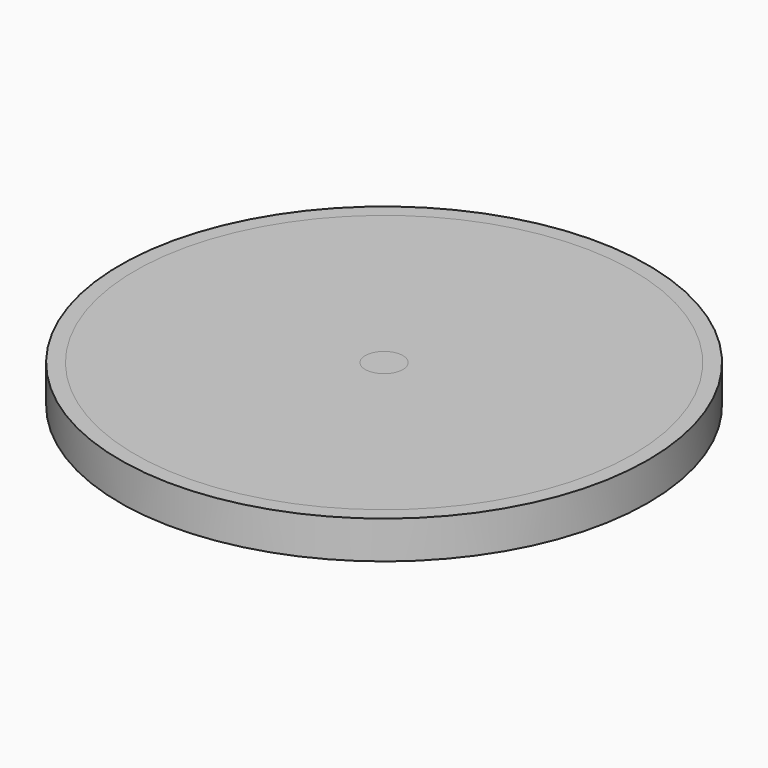
from build123d import *

# Parameters (mm, degrees)
F0_R     = 70
F1_DEPTH = 10
F2_R     = 66
F2_R_2   = 5
F3_DEPTH = 10


with BuildPart() as f1:
    # F0 (on Top) → F1 (new body)
    with BuildSketch(Plane.XY):
        Circle(F0_R)
    extrude(amount=F1_DEPTH)


with BuildPart() as f3:
    # F2 (on Top) → F3 (new body)
    with BuildSketch(Plane.XY):
        Circle(F2_R)
        Circle(F2_R_2, mode=Mode.SUBTRACT)
    extrude(amount=F3_DEPTH)


solid = Compound([f1.part, f3.part])
